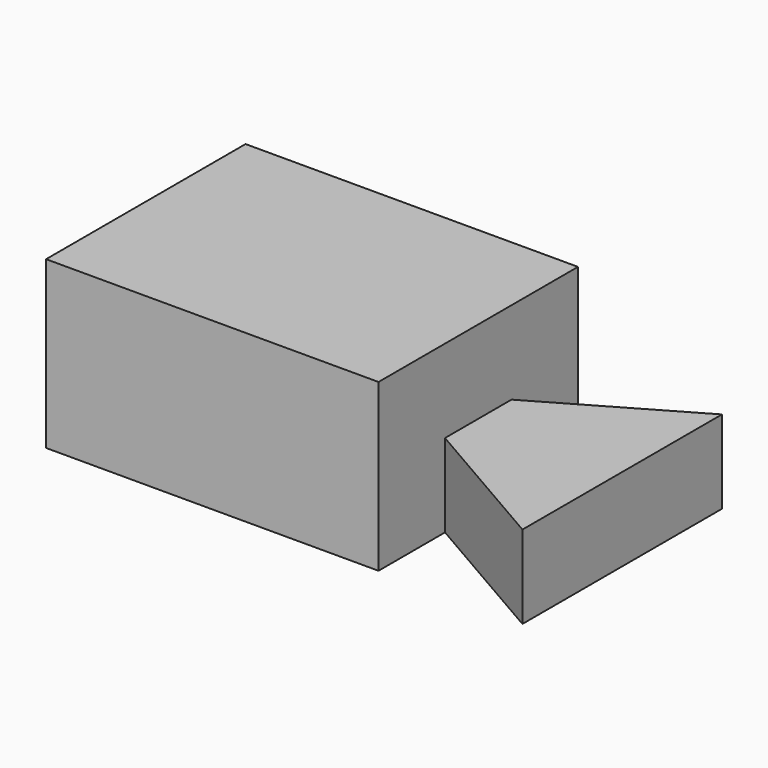
from build123d import *

# Parameters (mm, degrees)
F1_DEPTH = 25.4
F2_DEPTH = 50.8


with BuildPart() as f1:
    # F0 (on Top) → F1 (new body)
    with BuildSketch(Plane.XY):
        Polygon((94.46024, 36.990462), (50.46615, 11.590462), (50.46615, -13.809538), (94.46024, -39.209538), align=None)
    extrude(amount=F1_DEPTH)

    # F0 (on Top) → F2 (join)
    with BuildSketch(Plane.XY):
        Polygon((50.46615, 36.990462), (-51.13385, 36.990462), (-51.13385, -39.209538), (50.46615, -39.209538), (50.46615, -13.809538), (50.46615, 11.590462), align=None)
    extrude(amount=F2_DEPTH)


solid = f1.part
